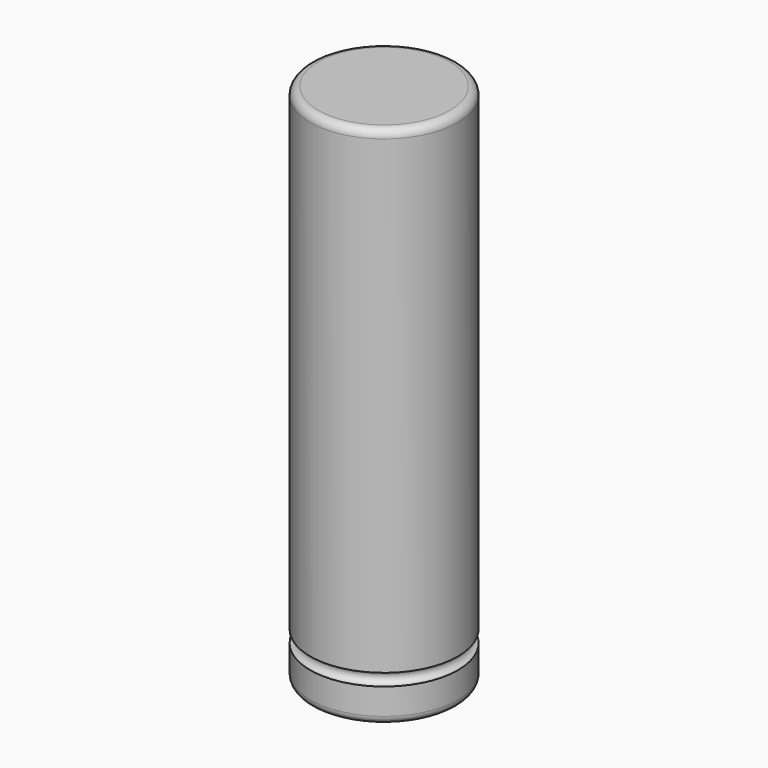
from build123d import *

# Parameters (mm, degrees)
F0_R     = 9.15
F1_DEPTH = 65
F4_R     = 1


with BuildPart() as f1:
    # F0 (on Top) → F1 (new body)
    with BuildSketch(Plane.XY):
        Circle(F0_R)
    extrude(amount=F1_DEPTH)

    # F2 (on Front) → F3 (revolve, cut)
    with BuildSketch(Plane.XZ):
        with BuildLine():
            Line((9.15, 4.25), (9.15, 5.75))
            ThreePointArc((9.15, 5.75), (8.4, 5), (9.15, 4.25))
        make_face()
    revolve(axis=Axis((0, 0, 13.149248), (0, 0, 1)), mode=Mode.SUBTRACT)

    # F4
    f4_edges = [f1.edges().sort_by_distance(p)[0] for p in [
        (-9.15, 0, 65),
        (-9.15, 0, 0),
    ]]
    fillet(f4_edges, radius=F4_R)


solid = f1.part
